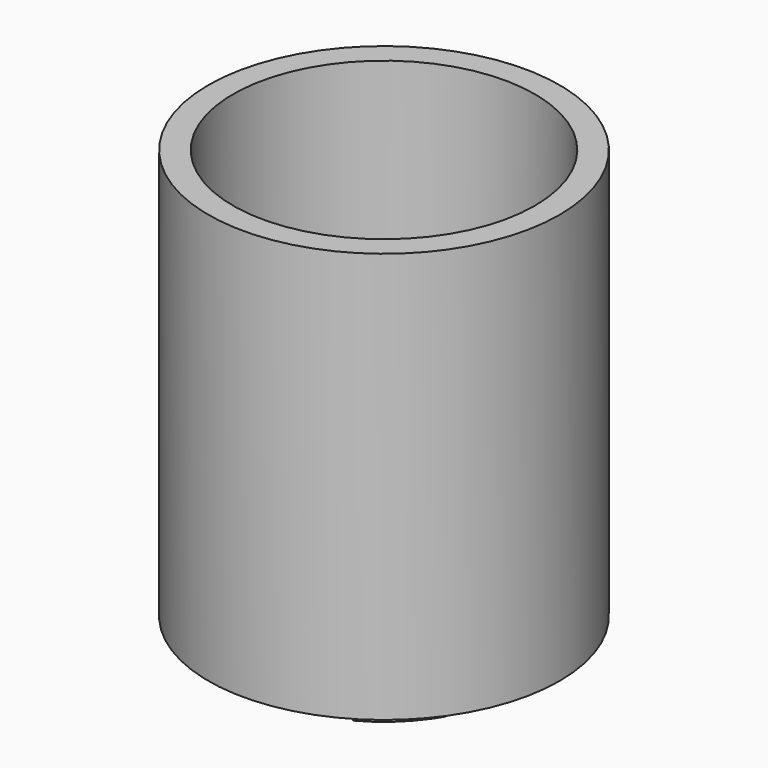
from build123d import *

# Parameters (mm, degrees)
F0_R     = 43.483028
F0_R_2   = 37.374542
F1_DEPTH = 101.6
F2_R     = 43.483028
F3_DEPTH = 2.54
F5_DEPTH = 6.35
F7_DEPTH = 3.175
F9_DEPTH = 0.635
F10_SIZE = 0.254


with BuildPart() as f1:
    # F0 (on Top) → F1 (new body)
    with BuildSketch(Plane.XY):
        Circle(F0_R)
        Circle(F0_R_2, mode=Mode.SUBTRACT)
    extrude(amount=F1_DEPTH)

    # F2 (on Top) → F3 (join)
    with BuildSketch(Plane.XY):
        Circle(F2_R)
    extrude(amount=F3_DEPTH)

    # F4 (on face) → F5 (join)
    with BuildSketch(Plane(origin=(0, 0, 0), x_dir=(1, 0, 0), z_dir=(0, 0, -1))):
        with BuildLine():
            ThreePointArc((26.263693, 18.529348), (21.249092, 24.116268), (15.075286, 28.387569))
            Line((15.075286, 28.387569), (12.097015, 22.779325))
            ThreePointArc((12.097015, 22.779325), (17.051125, 19.351862), (21.075042, 14.868693))
            Line((21.075042, 14.868693), (26.263693, 18.529348))
        make_face()
        with BuildLine():
            Line((-28.387569, 15.075286), (-22.779325, 12.097015))
            ThreePointArc((-22.779325, 12.097015), (-19.351862, 17.051125), (-14.868693, 21.075042))
            Line((-14.868693, 21.075042), (-18.529348, 26.263693))
            ThreePointArc((-18.529348, 26.263693), (-24.116268, 21.249092), (-28.387569, 15.075286))
        make_face()
        with BuildLine():
            Line((-15.075286, -28.387569), (-12.097015, -22.779325))
            ThreePointArc((-12.097015, -22.779325), (-17.051125, -19.351862), (-21.075042, -14.868693))
            Line((-21.075042, -14.868693), (-26.263693, -18.529348))
            ThreePointArc((-26.263693, -18.529348), (-21.249092, -24.116268), (-15.075286, -28.387569))
        make_face()
        with BuildLine():
            Line((28.387569, -15.075286), (22.779325, -12.097015))
            ThreePointArc((22.779325, -12.097015), (19.351862, -17.051125), (14.868693, -21.075042))
            Line((14.868693, -21.075042), (18.529348, -26.263693))
            ThreePointArc((18.529348, -26.263693), (24.116268, -21.249092), (28.387569, -15.075286))
        make_face()
    extrude(amount=F5_DEPTH)

    # F6 (on face) → F7 (join)
    with BuildSketch(Plane(origin=(0, 0, -6.35), x_dir=(1, 0, 0), z_dir=(0, 0, -1))):
        with BuildLine():
            Line((15.075286, 28.387569), (12.097015, 22.779325))
            ThreePointArc((12.097015, 22.779325), (18.212045, 18.263537), (22.74508, 12.161281))
            Line((22.74508, 12.161281), (27.965573, 15.844401))
            ThreePointArc((27.965573, 15.844401), (22.415656, 23.035986), (15.075286, 28.387569))
        make_face()
        with BuildLine():
            Line((-28.387569, 15.075286), (-22.779325, 12.097015))
            ThreePointArc((-22.779325, 12.097015), (-18.263537, 18.212045), (-12.161281, 22.74508))
            Line((-12.161281, 22.74508), (-15.844401, 27.965573))
            ThreePointArc((-15.844401, 27.965573), (-23.035986, 22.415656), (-28.387569, 15.075286))
        make_face()
        with BuildLine():
            Line((-15.075286, -28.387569), (-12.097015, -22.779325))
            ThreePointArc((-12.097015, -22.779325), (-18.212045, -18.263537), (-22.74508, -12.161281))
            Line((-22.74508, -12.161281), (-27.965573, -15.844401))
            ThreePointArc((-27.965573, -15.844401), (-22.415656, -23.035986), (-15.075286, -28.387569))
        make_face()
        with BuildLine():
            Line((28.387569, -15.075286), (22.779325, -12.097015))
            ThreePointArc((22.779325, -12.097015), (18.263537, -18.212045), (12.161281, -22.74508))
            Line((12.161281, -22.74508), (15.844401, -27.965573))
            ThreePointArc((15.844401, -27.965573), (23.035986, -22.415656), (28.387569, -15.075286))
        make_face()
    extrude(amount=-F7_DEPTH)

    # F8 (on face) → F9 (join)
    with BuildSketch(Plane.XY.offset(-3.175)):
        with BuildLine():
            Line((14.188464, 21.538869), (17.751208, 26.795763))
            ThreePointArc((17.751208, 26.795763), (17.325572, 27.072918), (16.895609, 27.343312))
            Line((16.895609, 27.343312), (13.329166, 22.080959))
            ThreePointArc((13.329166, 22.080959), (13.761484, 21.814146), (14.188464, 21.538869))
        make_face()
        with BuildLine():
            Line((-21.538869, 14.188464), (-26.795763, 17.751208))
            ThreePointArc((-26.795763, 17.751208), (-27.072918, 17.325572), (-27.343312, 16.895609))
            Line((-27.343312, 16.895609), (-22.080959, 13.329166))
            ThreePointArc((-22.080959, 13.329166), (-21.814146, 13.761484), (-21.538869, 14.188464))
        make_face()
        with BuildLine():
            Line((-14.188464, -21.538869), (-17.751208, -26.795763))
            ThreePointArc((-17.751208, -26.795763), (-17.325572, -27.072918), (-16.895609, -27.343312))
            Line((-16.895609, -27.343312), (-13.329166, -22.080959))
            ThreePointArc((-13.329166, -22.080959), (-13.761484, -21.814146), (-14.188464, -21.538869))
        make_face()
        with BuildLine():
            Line((21.538869, -14.188464), (26.795763, -17.751208))
            ThreePointArc((26.795763, -17.751208), (27.072918, -17.325572), (27.343312, -16.895609))
            Line((27.343312, -16.895609), (22.080959, -13.329166))
            ThreePointArc((22.080959, -13.329166), (21.814146, -13.761484), (21.538869, -14.188464))
        make_face()
    extrude(amount=F9_DEPTH)

    # F10
    f10_edges = [f1.edges().sort_by_distance(p)[0] for p in [
        (15.112387, 24.712135, -2.54),
        (15.969836, 24.167316, -2.54),
        (24.167316, -15.969836, -2.54),
        (24.712135, -15.112387, -2.54),
        (-15.969836, -24.167316, -2.54),
        (-15.112387, -24.712135, -2.54),
        (-24.712135, 15.112387, -2.54),
        (-24.167316, 15.969836, -2.54),
    ]]
    chamfer(f10_edges, length=F10_SIZE)


solid = f1.part
